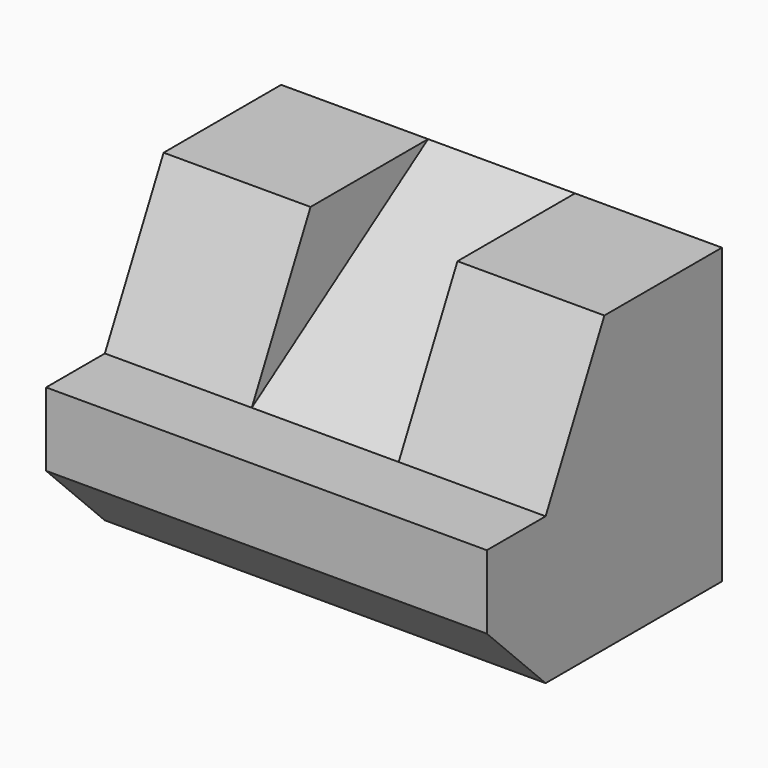
from build123d import *

# Parameters (mm, degrees)
F1_DEPTH = 15
F2_DEPTH = 5
F3_SIZE  = 5


with BuildPart() as f1:
    # F0 (on Right) → F1 (new body, symmetric)
    with BuildSketch(Plane.YZ):
        Polygon((-20, 0), (0, 0), (0, 20), (-15, 10), (-20, 10), align=None)
        Polygon((-15, 10), (0, 20), (-10, 20), align=None)
    extrude(amount=F1_DEPTH, both=True)

    # F0 (on Right) → F2 (cut, symmetric)
    with BuildSketch(Plane.YZ):
        Polygon((-15, 10), (0, 20), (-10, 20), align=None)
    extrude(amount=F2_DEPTH, both=True, mode=Mode.SUBTRACT)

    # F3
    f3_edges = [f1.edges().sort_by_distance(p)[0] for p in [
        (0, -20, 0),
    ]]
    chamfer(f3_edges, length=F3_SIZE)


solid = f1.part
